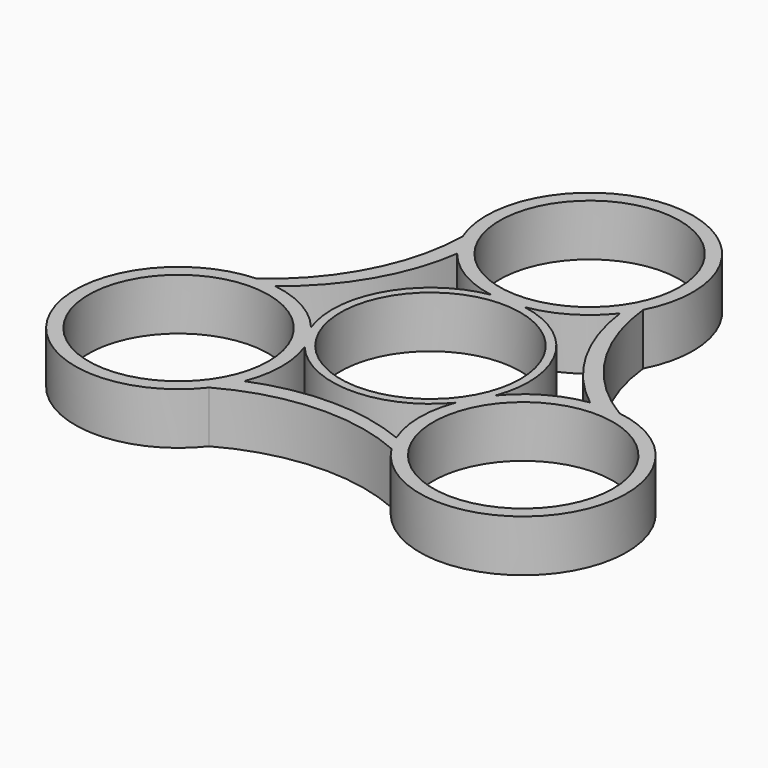
from build123d import *

# Parameters (mm, degrees)
F0_R     = 11.049
F1_DEPTH = 6.35


with BuildPart() as f1:
    # F0 (on Top) → F1 (new body)
    with BuildSketch(Plane.XY):
        with BuildLine():
            ThreePointArc((-11.771514, 19.656815), (-14.475948, 8.897779), (-21.697628, 0.476489))
            ThreePointArc((-21.697628, 0.476489), (-32.441402, -18.027731), (-11.137544, -20.022838))
            ThreePointArc((-11.137544, -20.022838), (-0.467729, -16.985428), (10.436163, -19.028942))
            ThreePointArc((10.436163, -19.028942), (31.833175, -19.081213), (22.909058, 0.366023))
            ThreePointArc((22.909058, 0.366023), (14.943677, 8.087649), (11.261466, 18.552453))
            ThreePointArc((11.261466, 18.552453), (0.608228, 37.108944), (-11.771514, 19.656815))
        make_face()
        with Locations((-21.151386, -12.211759)):
            Circle(F0_R, mode=Mode.SUBTRACT)
        with BuildLine():
            ThreePointArc((-9.272628, -7.718977), (0, -12.065), (9.272628, -7.718977))
            ThreePointArc((9.272628, -7.718977), (8.452064, -12.342974), (9.367997, -16.949029))
            ThreePointArc((9.367997, -16.949029), (0.017693, -15.074095), (-9.344314, -16.889691))
            ThreePointArc((-9.344314, -16.889691), (-8.451774, -12.31103), (-9.272628, -7.718977))
        make_face(mode=Mode.SUBTRACT)
        with Locations((21.151386, -12.211759)):
            Circle(F0_R, mode=Mode.SUBTRACT)
        Circle(F0_R, mode=Mode.SUBTRACT)
        with BuildLine():
            ThreePointArc((-9.954744, 16.537259), (-6.435778, 13.474967), (-2.048516, 11.889819))
            ThreePointArc((-2.048516, 11.889819), (-10.448596, 6.0325), (-11.321144, -4.170843))
            ThreePointArc((-11.321144, -4.170843), (-14.915361, -1.148215), (-19.362288, 0.361591))
            ThreePointArc((-19.362288, 0.361591), (-13.063396, 7.521725), (-9.954744, 16.537259))
        make_face(mode=Mode.SUBTRACT)
        with BuildLine():
            ThreePointArc((11.321144, -4.170843), (10.448596, 6.0325), (2.048516, 11.889819))
            ThreePointArc((2.048516, 11.889819), (6.463297, 13.491189), (9.994291, 16.587438))
            ThreePointArc((9.994291, 16.587438), (13.045703, 7.55237), (19.299058, 0.352432))
            ThreePointArc((19.299058, 0.352432), (14.887552, -1.163936), (11.321144, -4.170843))
        make_face(mode=Mode.SUBTRACT)
        with Locations((0, 24.423517)):
            Circle(F0_R, mode=Mode.SUBTRACT)
    extrude(amount=F1_DEPTH)


solid = f1.part
